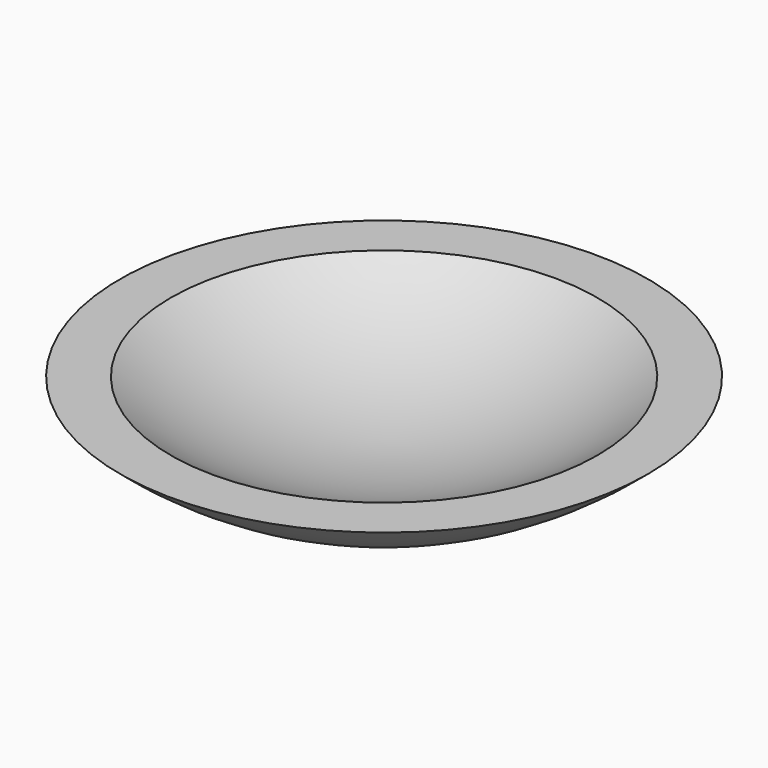
from build123d import *

# Parameters (mm, degrees)
BOX037_W                    = 73
BOX037_H                    = 67
BOX037_DEPTH                = 32
CYLINDER039_R               = 9
CYLINDER039_DEPTH           = 10
CYLINDER039_PITCH_ANGLE     = 90
BOX042_W                    = 10
BOX042_H                    = 18
BOX042_DEPTH                = 6
CYLINDER038_R               = 9
CYLINDER038_DEPTH           = 10
CYLINDER038_PITCH_ANGLE     = 90
CYLINDER037_R               = 7.5
CYLINDER037_DEPTH           = 20
CYLINDER037_PITCH_ANGLE     = 90
BOX041_W                    = 10
BOX041_H                    = 47
BOX041_DEPTH                = 24
BOX040_W                    = 98
BOX040_H                    = 98
BOX040_DEPTH                = 98
CYLINDER036_R               = 4
CYLINDER036_DEPTH           = 52
CYLINDER036_PITCH_ANGLE     = -90
CYLINDER036_PLACEMENT_ANGLE = 170
BOX039_W                    = 120
BOX039_H                    = 64
BOX039_DEPTH                = 15
BOX039_PLACEMENT_ANGLE      = 45
BOX038_W                    = 120
BOX038_H                    = 61
BOX038_DEPTH                = 15
BOX038_PLACEMENT_ANGLE      = -10
CYLINDER034_R               = 52
CYLINDER034_DEPTH           = 8
CYLINDER035_R               = 4
CYLINDER035_DEPTH           = 52
CYLINDER035_PITCH_ANGLE     = -90
CYLINDER035_PLACEMENT_ANGLE = 45


with BuildPart() as cubo030:
    # Box037 → Box037 (new body)
    with BuildSketch(Plane(origin=(38, -33, -28.5), x_dir=(-1, 0, 0), z_dir=(0, 0, -1))):
        with Locations((36.5, 33.5)):
            Rectangle(BOX037_W, BOX037_H)
    extrude(amount=BOX037_DEPTH)


with BuildPart() as cilindro029:
    # Cylinder039 → Cylinder039 (new body)
    with BuildSketch(Plane.XY):
        Circle(CYLINDER039_R)
    extrude(amount=CYLINDER039_DEPTH)


with BuildPart() as cilindro029_1:
    # Cylinder039 pitch: moved
    add(cilindro029.part.rotate(Axis((0, 0, 0), (0, 1, 0)), CYLINDER039_PITCH_ANGLE))


with BuildPart() as cilindro029_2:
    # Cylinder039 placement: moved
    add(cilindro029_1.part.moved(Location((-33, 0, 3))))


with BuildPart() as cubo034:
    # Box042 → Box042 (new body)
    with BuildSketch(Plane(origin=(-33, -9, -3), x_dir=(1, 0, 0), z_dir=(0, 0, 1))):
        with Locations((5, 9)):
            Rectangle(BOX042_W, BOX042_H)
    extrude(amount=BOX042_DEPTH)


with BuildPart() as obj1:
    # Cylinder038 → Cylinder038 (new body)
    with BuildSketch(Plane.XY):
        Circle(CYLINDER038_R)
    extrude(amount=CYLINDER038_DEPTH)


with BuildPart() as obj1_1:
    # Cylinder038 pitch: moved
    add(obj1.part.rotate(Axis((0, 0, 0), (0, 1, 0)), CYLINDER038_PITCH_ANGLE))


with BuildPart() as obj1_2:
    # Cylinder038 placement: moved
    add(obj1_1.part.moved(Location((-33, 0, -3))))

    # Fusion026: union Cilindro029, Cubo034
    add(cilindro029_2.part)
    add(cubo034.part)


with BuildPart() as obj2:
    # Cylinder037 → Cylinder037 (new body)
    with BuildSketch(Plane.XY):
        Circle(CYLINDER037_R)
    extrude(amount=CYLINDER037_DEPTH)


with BuildPart() as obj2_1:
    # Cylinder037 pitch: moved
    add(obj2.part.rotate(Axis((0, 0, 0), (0, 1, 0)), CYLINDER037_PITCH_ANGLE))


with BuildPart() as obj2_2:
    # Cylinder037 placement: moved
    add(obj2_1.part.moved(Location((-46, 0, 0))))


with BuildPart() as obj3:
    # Sphere013 → Sphere013 (revolve)
    with BuildSketch(Plane.XZ):
        with BuildLine():
            ThreePointArc((0, -35), (35, 0), (0, 35))
            Line((0, 35), (0, -35))
        make_face()
    revolve(axis=Axis((0, 0, 0), (0, 0, 1)))


with BuildPart() as common006:
    # Box041 → Box041 (new body)
    with BuildSketch(Plane(origin=(-38, -22, -24), x_dir=(1, 0, 0), z_dir=(0, 0, 1))):
        with Locations((5, 23.5)):
            Rectangle(BOX041_W, BOX041_H)
    extrude(amount=BOX041_DEPTH)

    # Common006: intersect obj3
    add(obj3.part, mode=Mode.INTERSECT)


with BuildPart() as obj4:
    # Box040 → Box040 (new body)
    with BuildSketch(Plane(origin=(-52, -49, 0), x_dir=(1, 0, 0), z_dir=(0, 0, 1))):
        with Locations((49, 49)):
            Rectangle(BOX040_W, BOX040_H)
    extrude(amount=BOX040_DEPTH)


with BuildPart() as cilindro027:
    # Cylinder036 → Cylinder036 (new body)
    with BuildSketch(Plane.XY):
        Circle(CYLINDER036_R)
    extrude(amount=CYLINDER036_DEPTH)


with BuildPart() as cilindro027_1:
    # Cylinder036 pitch: moved
    add(cilindro027.part.rotate(Axis((0, 0, 0), (0, 1, 0)), CYLINDER036_PITCH_ANGLE))


with BuildPart() as cilindro027_2:
    # Cylinder036 placement: moved
    add(cilindro027_1.part.rotate(Axis((0, 0, 0), (0, 0, 1)), CYLINDER036_PLACEMENT_ANGLE))


with BuildPart() as cubo032:
    # Box039 → Box039 (new body)
    with BuildSketch(Plane.XY):
        with Locations((60, 32)):
            Rectangle(BOX039_W, BOX039_H)
    extrude(amount=BOX039_DEPTH)


with BuildPart() as cubo032_1:
    # Box039 placement: moved
    add(cubo032.part.moved(Location((-42.426407, -42.426407, -9))).rotate(Axis((-42.426407, -42.426407, -9), (0, 0, 1)), BOX039_PLACEMENT_ANGLE))


with BuildPart() as cubo031:
    # Box038 → Box038 (new body)
    with BuildSketch(Plane.XY):
        with Locations((60, 30.5)):
            Rectangle(BOX038_W, BOX038_H)
    extrude(amount=BOX038_DEPTH)


with BuildPart() as cubo031_1:
    # Box038 placement: moved
    add(cubo031.part.moved(Location((-59.088465, 10.418891, -8))).rotate(Axis((-59.088465, 10.418891, -8), (0, 0, 1)), BOX038_PLACEMENT_ANGLE))


with BuildPart() as cut052:
    # Cylinder034 → Cylinder034 (new body)
    with BuildSketch(Plane.XY.offset(-4)):
        Circle(CYLINDER034_R)
    extrude(amount=CYLINDER034_DEPTH)

    # Cut051: cut Cubo031
    add(cubo031_1.part, mode=Mode.SUBTRACT)

    # Cut052: cut Cubo032
    add(cubo032_1.part, mode=Mode.SUBTRACT)


with BuildPart() as ranura006:
    # Cylinder035 → Cylinder035 (new body)
    with BuildSketch(Plane.XY):
        Circle(CYLINDER035_R)
    extrude(amount=CYLINDER035_DEPTH)


with BuildPart() as ranura006_1:
    # Cylinder035 pitch: moved
    add(ranura006.part.rotate(Axis((0, 0, 0), (0, 1, 0)), CYLINDER035_PITCH_ANGLE))


with BuildPart() as ranura006_2:
    # Cylinder035 placement: moved
    add(ranura006_1.part.rotate(Axis((0, 0, 0), (0, 0, 1)), CYLINDER035_PLACEMENT_ANGLE))

    # Fusion024: union Cilindro027, Cut052
    add(cilindro027_2.part)
    add(cut052.part)


with BuildPart() as obj5:
    # Sphere012 → Sphere012 (revolve)
    with BuildSketch(Plane.XZ):
        with BuildLine():
            ThreePointArc((0, -35), (35, 0), (0, 35))
            Line((0, 35), (0, -35))
        make_face()
    revolve(axis=Axis((0, 0, 0), (0, 0, 1)))


with BuildPart() as obj6:
    # Sphere011 → Sphere011 (revolve)
    with BuildSketch(Plane.XZ):
        with BuildLine():
            ThreePointArc((0, -38), (38, 0), (0, 38))
            Line((0, 38), (0, -38))
        make_face()
    revolve(axis=Axis((0, 0, 0), (0, 0, 1)))

    # Cut053: cut obj5
    add(obj5.part, mode=Mode.SUBTRACT)

    # Cut054: cut Ranura006
    add(ranura006_2.part, mode=Mode.SUBTRACT)

    # Cut055: cut obj4
    add(obj4.part, mode=Mode.SUBTRACT)

    # Fusion025: union Common006
    add(common006.part)

    # Cut056: cut obj2
    add(obj2_2.part, mode=Mode.SUBTRACT)

    # Cut057: cut obj1
    add(obj1_2.part, mode=Mode.SUBTRACT)

    # Common007: intersect Cubo030
    add(cubo030.part, mode=Mode.INTERSECT)


solid = obj6.part
